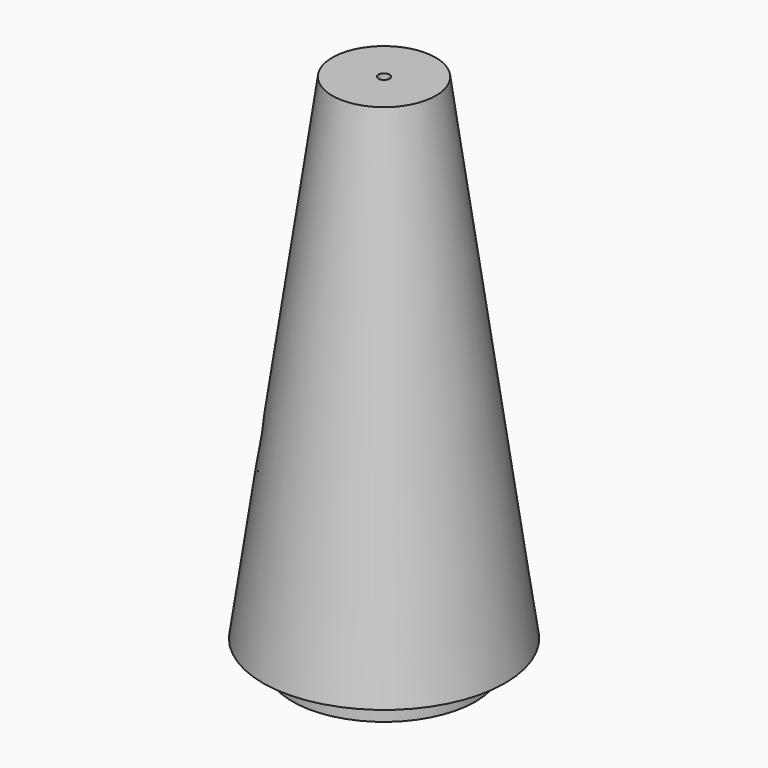
from build123d import *

# Parameters (mm, degrees)
F2_R     = 0.75
F3_DEPTH = 70.001
F4_W     = 12
F4_H     = 20
F5_DEPTH = 25
F6_R     = 10
F7_DEPTH = 10
F8_SIZE  = 3


with BuildPart() as f1:
    # F0 (on Front) → F1 (revolve)
    with BuildSketch(Plane.XZ):
        Polygon((6.954034, 26.641815), (0, 26.641815), (0, 24.641815), (3, 24.641815), (5, 22.641815), (5, -43.358185), (12.3, -43.358185), (12.3, -39.858185), (16.3, -39.858185), align=None)
    revolve(axis=Axis((0, 0, 25.641815), (0, 0, 1)))

    # F2 (on face) → F3 (cut, through all)
    with BuildSketch(Plane.XY.offset(26.641815)):
        Circle(F2_R)
    extrude(amount=-F3_DEPTH, mode=Mode.SUBTRACT)

    # F4 (on Right) → F5 (cut)
    with BuildSketch(Plane.YZ):
        with Locations((0, -26.858185)):
            Rectangle(F4_W, F4_H)
    extrude(amount=-F5_DEPTH, mode=Mode.SUBTRACT)

    # F6 (on face) → F7 (cut)
    with BuildSketch(Plane(origin=(0, 0, -43.358185), x_dir=(1, 0, 0), z_dir=(0, 0, -1))):
        Circle(F6_R)
    extrude(amount=-F7_DEPTH, mode=Mode.SUBTRACT)

    # F8
    f8_edges = [f1.edges().sort_by_distance(p)[0] for p in [
        (-10, 0, -36.858185),
    ]]
    chamfer(f8_edges, length=F8_SIZE)


solid = f1.part
